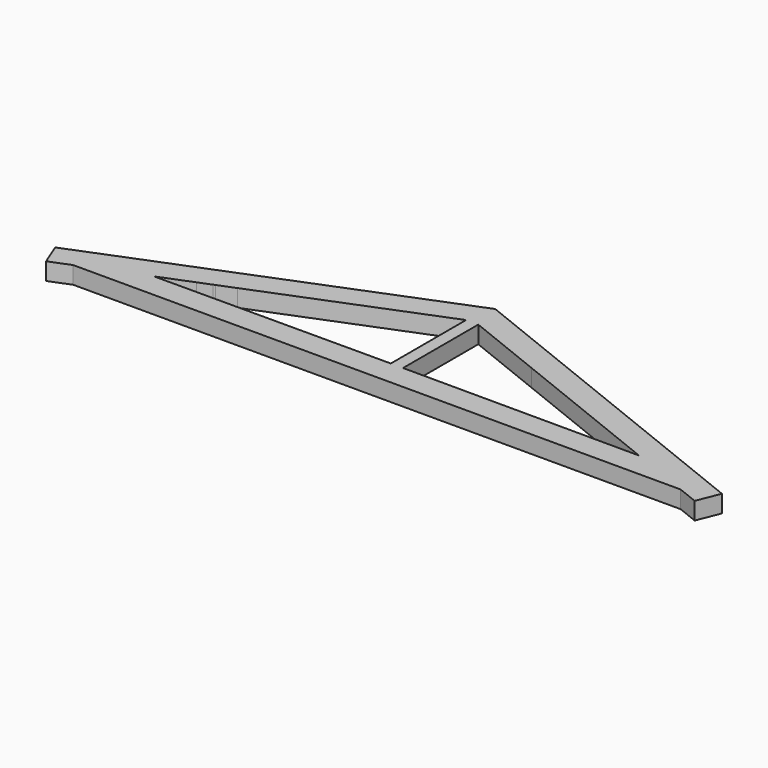
from build123d import *

# Parameters (mm, degrees)
F1_DEPTH = 2


with BuildPart() as f1:
    # F0 (on Top) → F1 (new body)
    with BuildSketch(Plane.XY):
        Polygon((35.795692, 1.309958), (0, 15.628235), (-35.795692, 1.309958), (-38.415608, 0.261992), (-37.367642, -2.357925), (-35, -1.410868), (-31.472829, -1.410868), (31.472829, -1.410868), (35, -1.410868), (37.367642, -2.357925), (38.415608, 0.261992), align=None)
        Polygon((-0.705434, 12.306958), (-0.705434, 1.467744), (-27.945658, 1.410868), (-24.219906, 2.901169), (-22.809038, 3.465516), (-22.564752, 3.563231), (-20.665313, 4.323007), align=None, mode=Mode.SUBTRACT)
        Polygon((0.705434, 1.467744), (0.705434, 12.306958), (9.738113, 8.693887), (27.945658, 1.410868), align=None, mode=Mode.SUBTRACT)
    extrude(amount=F1_DEPTH)


solid = f1.part
